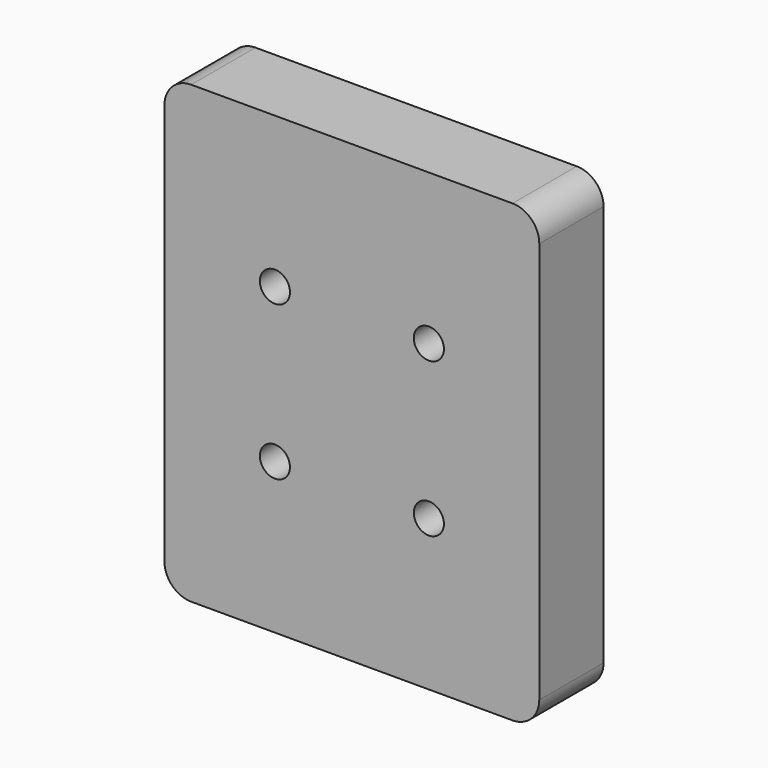
from build123d import *

# Parameters (mm, degrees)
F0_W     = 56
F0_H     = 68
F0_R     = 2.25
F1_DEPTH = 12
F2_R     = 4


with BuildPart() as f1:
    # F0 (on Front) → F1 (new body)
    with BuildSketch(Plane.XZ):
        Rectangle(F0_W, F0_H)
        with Locations((-11.5, -11.5)):
            Circle(F0_R, mode=Mode.SUBTRACT)
        with Locations((11.5, -11.5)):
            Circle(F0_R, mode=Mode.SUBTRACT)
        with Locations((-11.5, 11.5)):
            Circle(F0_R, mode=Mode.SUBTRACT)
        with Locations((11.5, 11.5)):
            Circle(F0_R, mode=Mode.SUBTRACT)
    extrude(amount=F1_DEPTH)

    # F2
    f2_edges = [f1.edges().sort_by_distance(p)[0] for p in [
        (28, -6, -34),
        (-28, -6, -34),
        (28, -6, 34),
        (-28, -6, 34),
    ]]
    fillet(f2_edges, radius=F2_R)


solid = f1.part
